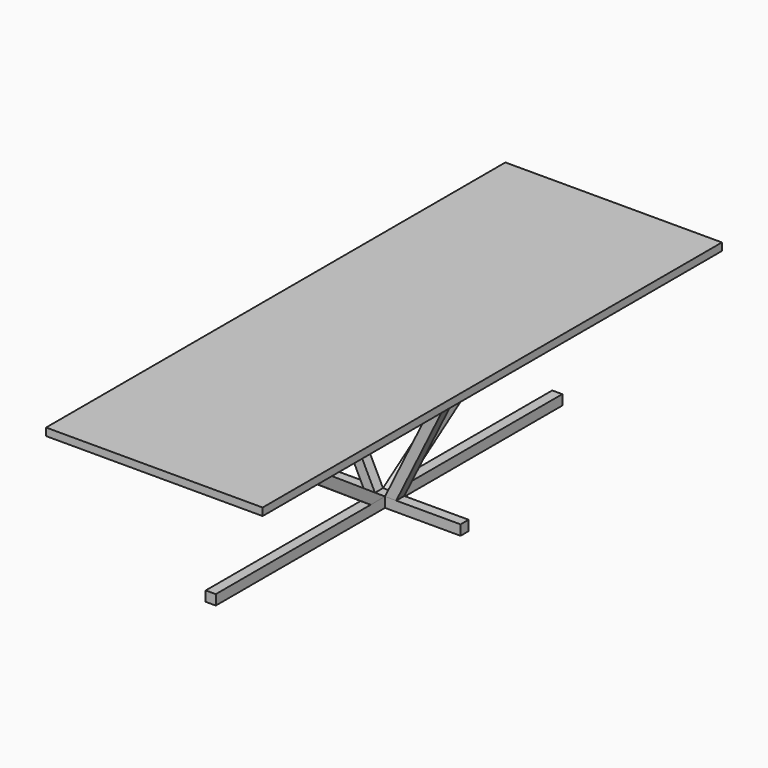
from build123d import *

# Parameters (mm, degrees)
F0_W      = 2184.4
F0_H      = 50.8
F1_DEPTH  = 25.4
F2_W      = 50.8
F2_H      = 50.8
F3_DEPTH  = 406.4
F4_W      = 1447.8
F4_H      = 38.1
F5_DEPTH  = 546.1
F7_DEPTH  = 25.4
F10_DEPTH = 25.4


with BuildPart() as f1:
    # F0 (on Right) → F1 (new body, symmetric)
    with BuildSketch(Plane.YZ):
        Rectangle(F0_W, F0_H)
    extrude(amount=F1_DEPTH, both=True)

    # F2 (on Right) → F3 (join, symmetric)
    with BuildSketch(Plane.YZ):
        Rectangle(F2_W, F2_H)
    extrude(amount=F3_DEPTH, both=True)


with BuildPart() as f5:
    # F4 (on Right) → F5 (new body, symmetric)
    with BuildSketch(Plane.YZ):
        with Locations((-723.9, 704.85)):
            Rectangle(F4_W, F4_H)
        with Locations((723.9, 704.85)):
            Rectangle(F4_W, F4_H)
    extrude(amount=F5_DEPTH, both=True)


with BuildPart() as f7:
    # F6 (on Right) → F7 (new body, symmetric)
    with BuildSketch(Plane.YZ):
        Polygon((1001.571734, 686.133206), (25.4, 25.4), (116.028266, 25.4), (1092.2, 686.133206), align=None)
    extrude(amount=F7_DEPTH, both=True)


with BuildPart() as f8_1:
    # F8: instance of F7
    add(f7.part.mirror(Plane.XZ))


with BuildPart() as f10:
    # F9 (on Front) → F10 (new body, symmetric)
    with BuildSketch(Plane.XZ):
        Polygon((-81.996874, 25.4), (-25.4, 25.4), (-349.803126, 685.874412), (-406.4, 685.874412), align=None)
    extrude(amount=F10_DEPTH, both=True)


with BuildPart() as f11_1:
    # F11: instance of F10
    add(f10.part.mirror(Plane.YZ))


solid = Compound([f1.part, f5.part, f7.part, f8_1.part, f10.part, f11_1.part])
